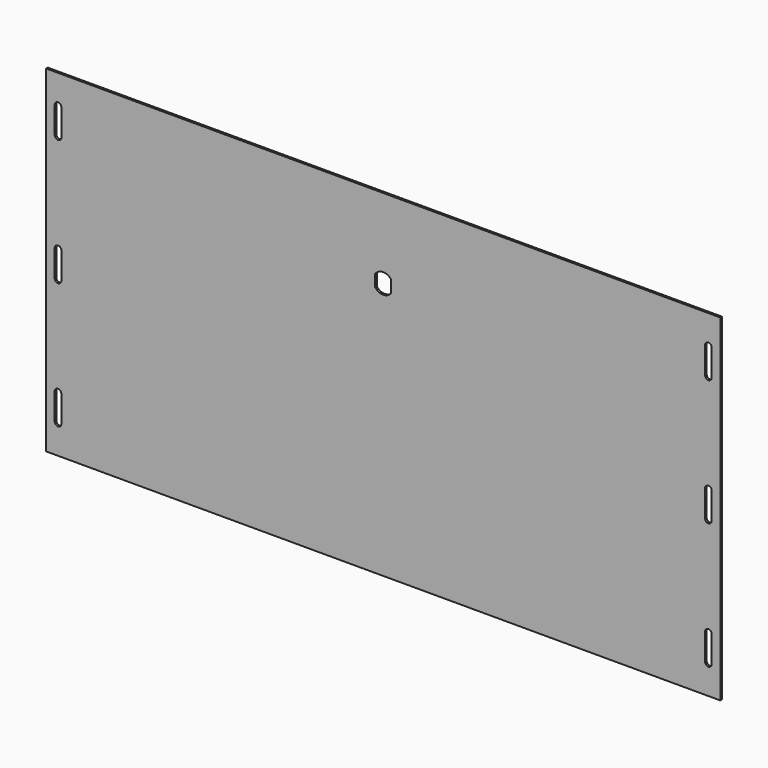
from build123d import *

# Parameters (mm, degrees)
F0_W     = 1016
F0_H     = 508
F1_DEPTH = 3


with BuildPart() as f1:
    # F0 (on Front) → F1 (new body)
    with BuildSketch(Plane.XZ):
        with Locations((508, 254)):
            Rectangle(F0_W, F0_H)
        with BuildLine():
            ThreePointArc((13, 84), (18, 89), (23, 84))
            Line((23, 84), (23, 44))
            ThreePointArc((23, 44), (18, 39), (13, 44))
            Line((13, 44), (13, 84))
        make_face(mode=Mode.SUBTRACT)
        with BuildLine():
            ThreePointArc((1003, 44), (998, 39), (993, 44))
            Line((993, 44), (993, 84))
            ThreePointArc((993, 84), (998, 89), (1003, 84))
            Line((1003, 84), (1003, 44))
        make_face(mode=Mode.SUBTRACT)
        with BuildLine():
            ThreePointArc((13, 274), (18, 279), (23, 274))
            Line((23, 274), (23, 234))
            ThreePointArc((23, 234), (18, 229), (13, 234))
            Line((13, 234), (13, 274))
        make_face(mode=Mode.SUBTRACT)
        with BuildLine():
            ThreePointArc((13, 464), (18, 469), (23, 464))
            Line((23, 464), (23, 424))
            ThreePointArc((23, 424), (18, 419), (13, 424))
            Line((13, 424), (13, 464))
        make_face(mode=Mode.SUBTRACT)
        with BuildLine():
            ThreePointArc((993, 274), (998, 279), (1003, 274))
            Line((1003, 274), (1003, 234))
            ThreePointArc((1003, 234), (998, 229), (993, 234))
            Line((993, 234), (993, 274))
        make_face(mode=Mode.SUBTRACT)
        with BuildLine():
            ThreePointArc((520, 379), (508, 373), (496, 379))
            Line((496, 379), (496, 397))
            ThreePointArc((496, 397), (508, 403), (520, 397))
            Line((520, 397), (520, 379))
        make_face(mode=Mode.SUBTRACT)
        with BuildLine():
            ThreePointArc((993, 464), (998, 469), (1003, 464))
            Line((1003, 464), (1003, 424))
            ThreePointArc((1003, 424), (998, 419), (993, 424))
            Line((993, 424), (993, 464))
        make_face(mode=Mode.SUBTRACT)
    extrude(amount=F1_DEPTH)


solid = f1.part
